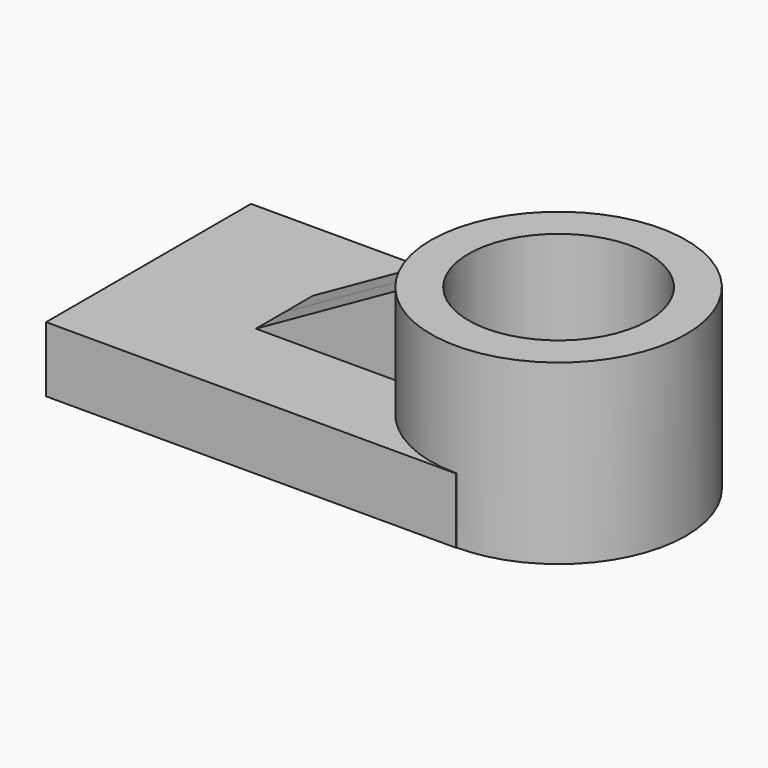
from build123d import *

# Parameters (mm, degrees)
F0_W     = 66.904128
F0_H     = 41.792166
F2_DEPTH = 10.668
F1_R     = 20.810688
F3_DEPTH = 28.956
F4_R     = 14.706243
F5_DEPTH = 65.024
F7_DEPTH = 5.842
F8_DEPTH = 5.842


with BuildPart() as f2:
    # F0 (on Top) → F2 (new body)
    with BuildSketch(Plane.XY):
        Rectangle(F0_W, F0_H)
    extrude(amount=F2_DEPTH)

    # F1 (on Top) → F3 (join)
    with BuildSketch(Plane.XY):
        with Locations((33.452064, 0)):
            Circle(F1_R)
    extrude(amount=F3_DEPTH)

    # F4 (on face) → F5 (cut)
    with BuildSketch(Plane.XY.offset(28.956)):
        with Locations((33.452064, 0)):
            Circle(F4_R)
    extrude(amount=-F5_DEPTH, mode=Mode.SUBTRACT)


with BuildPart() as f7:
    # F6 (on Front) → F7 (new body)
    with BuildSketch(Plane.XZ):
        Polygon((12.55598, 10.81464), (12.55598, 24.195464), (-11.272887, 10.81464), align=None)
    extrude(amount=F7_DEPTH)

    # F7_face (on face) → F8 (join)
    with BuildSketch(Plane(origin=(4.613024, 0, 15.274915), x_dir=(1, 0, 0), z_dir=(0, 1, 0))):
        Polygon((7.942956, 4.460275), (-15.885911, 4.460275), (7.942956, -8.92055), align=None)
    extrude(amount=F8_DEPTH)


solid = Compound([f2.part, f7.part])
